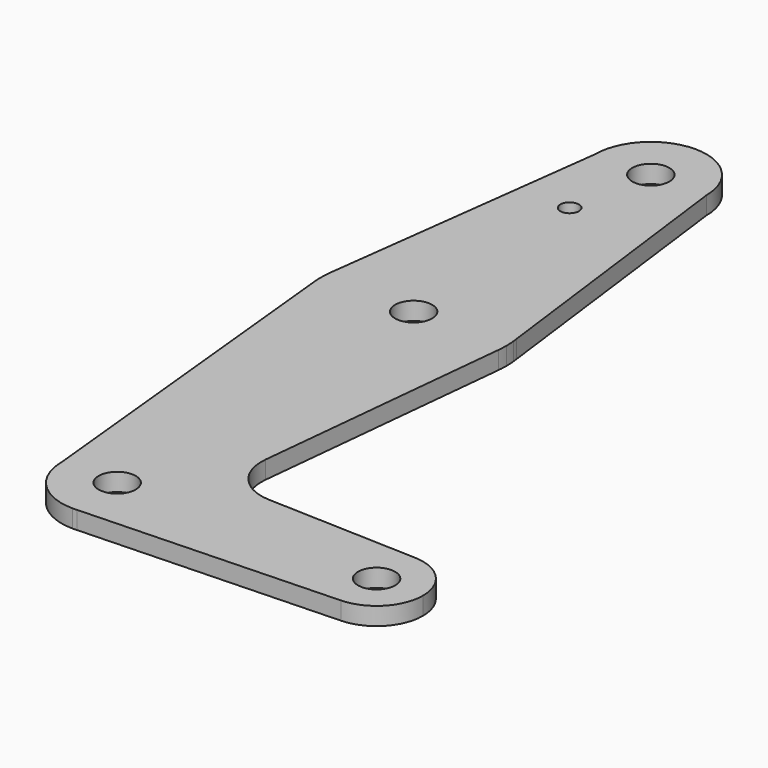
from build123d import *

# Parameters (mm, degrees)
F0_R     = 3.175
F0_R_2   = 1.5875
F1_DEPTH = 3.048


with BuildPart() as f1:
    # F0 (on Top) → F1 (new body)
    with BuildSketch(Plane.XY):
        with BuildLine():
            ThreePointArc((0.677344, -9.500886), (6.970557, -6.491299), (9.525, 0))
            ThreePointArc((9.525, 0), (0, 9.525), (-9.525, 0))
            ThreePointArc((-9.525, 0), (-6.735192, -6.735192), (0, -9.525))
            Line((0, -9.525), (0.677344, -9.500886))
        make_face()
        Circle(F0_R, mode=Mode.SUBTRACT)
        with BuildLine():
            ThreePointArc((-9.525, 0), (0, 9.525), (9.525, 0))
            ThreePointArc((9.525, 0), (6.970557, -6.491299), (0.677344, -9.500886))
            Line((0.677344, -9.500886), (44.732405, -7.932475))
            ThreePointArc((44.732405, -7.932475), (36.5125, 0), (44.732405, 7.932475))
            Line((44.732405, 7.932475), (18.934103, 8.850924))
            ThreePointArc((18.934103, 8.850924), (13.224974, 11.57098), (11.307223, 17.59718))
            Line((11.307223, 17.59718), (15.794203, 61.90038))
            ThreePointArc((15.794203, 61.90038), (0, 47.625), (-15.794203, 61.90038))
            Line((-15.794203, 61.90038), (-9.525, 0))
        make_face()
        with BuildLine():
            ThreePointArc((0, -9.525), (0.338886, -9.51897), (0.677344, -9.500886))
            Line((0.677344, -9.500886), (0, -9.525))
        make_face()
        with BuildLine():
            ThreePointArc((-15.747457, 65.508289), (-15.873668, 63.705667), (-15.794203, 61.90038))
            ThreePointArc((-15.794203, 61.90038), (0, 47.625), (15.794203, 61.90038))
            ThreePointArc((15.794203, 61.90038), (15.854788, 62.699171), (15.875, 63.5))
            ThreePointArc((15.875, 63.5), (15.854788, 64.300829), (15.794203, 65.09962))
            Line((15.794203, 65.09962), (15.690657, 65.912239))
            ThreePointArc((15.690657, 65.912239), (-0.203962, 79.37369), (-15.747457, 65.508289))
        make_face()
        with Locations((0, 63.5)):
            Circle(F0_R, mode=Mode.SUBTRACT)
        with BuildLine():
            ThreePointArc((44.732405, 7.932475), (36.5125, 0), (44.732405, -7.932475))
            ThreePointArc((44.732405, -7.932475), (50.161633, -5.51191), (52.3875, 0))
            ThreePointArc((52.3875, 0), (50.161633, 5.51191), (44.732405, 7.932475))
        make_face()
        with Locations((44.45, 0)):
            Circle(F0_R, mode=Mode.SUBTRACT)
        with BuildLine():
            Line((-9.525, 114.3), (-15.747457, 65.508289))
            ThreePointArc((-15.747457, 65.508289), (-0.203962, 79.37369), (15.690657, 65.912239))
            Line((15.690657, 65.912239), (9.525, 114.3))
            ThreePointArc((9.525, 114.3), (0, 104.775), (-9.525, 114.3))
        make_face()
        with Locations((-2.492546, 100.0252)):
            Circle(F0_R_2, mode=Mode.SUBTRACT)
        with BuildLine():
            ThreePointArc((15.794203, 65.09962), (15.747673, 65.506597), (15.690657, 65.912239))
            Line((15.690657, 65.912239), (15.794203, 65.09962))
        make_face()
        with BuildLine():
            ThreePointArc((9.525, 114.3), (0, 123.825), (-9.525, 114.3))
            ThreePointArc((-9.525, 114.3), (0, 104.775), (9.525, 114.3))
        make_face()
        with Locations((0, 114.3)):
            Circle(F0_R, mode=Mode.SUBTRACT)
    extrude(amount=F1_DEPTH)


solid = f1.part
